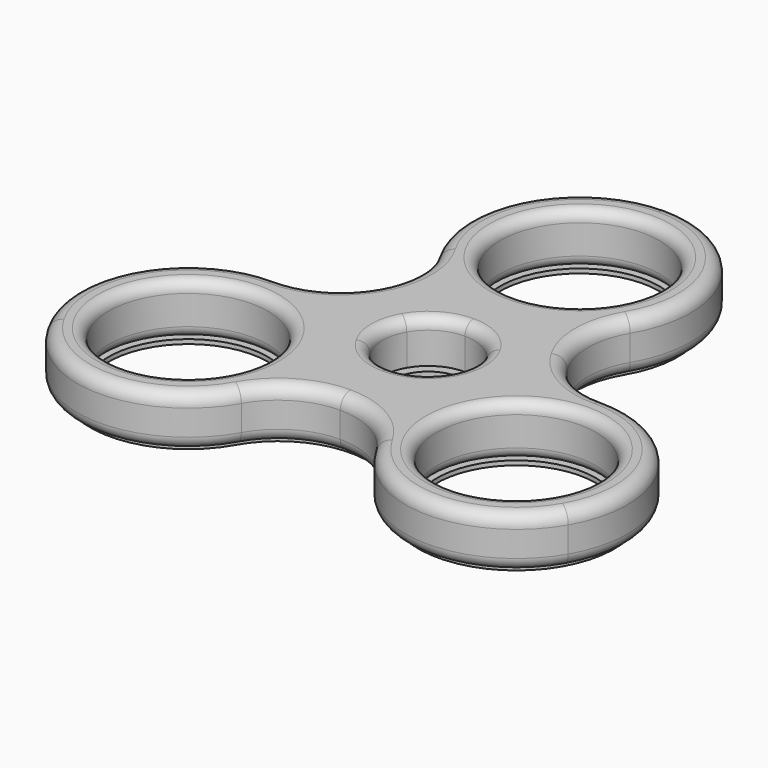
from build123d import *

# Parameters (mm, degrees)
F2_DEPTH  = 7
F4_COUNT  = 3
F5_R      = 6.275
F5_R_2    = 4.975
F6_DEPTH  = 1.2
F7_R      = 1.75
F8_R      = 1.75
F9_R      = 1.5
F10_R     = 10.875
F10_R_2   = 4.975
F11_DEPTH = 0.6


with BuildPart() as f2:
    # F1 (on Top) → F2 (new body)
    with BuildSketch(Plane.XY):
        with BuildLine():
            ThreePointArc((13.065388197, 18.1814343132), (13.1797165997, 33.4216816838), (0, 41.075))
            ThreePointArc((0, 41.075), (-13.1797165997, 33.4216816838), (-13.065388197, 18.1814343132))
            ThreePointArc((-13.065388197, 18.1814343132), (-11.5950374492, 12.8541871204), (-13.0120316919, 7.5125))
            Line((-13.0120316919, 7.5125), (-5.4343094087, 3.1375))
            ThreePointArc((-5.4343094087, 3.1375), (-3.1375, 5.4343094087), (0, 6.275))
            ThreePointArc((0, 6.275), (3.1375, 5.4343094087), (5.4343094087, 3.1375))
            Line((5.4343094087, 3.1375), (13.0120316919, 7.5125))
            ThreePointArc((13.0120316919, 7.5125), (11.5950374492, 12.8541871204), (13.065388197, 18.1814343132))
        make_face()
        with BuildLine():
            ThreePointArc((0, 15.025), (-10.875, 25.9), (0, 36.775))
            ThreePointArc((0, 36.775), (10.875, 25.9), (0, 15.025))
        make_face(mode=Mode.SUBTRACT)
    extrude(amount=F2_DEPTH)

    # F4: F2 ×3 about axis
    f4_axis = Axis((0, 0, -21.1250233245), (0, 0, -1))


with BuildPart() as f2_1:
    add(f2.part)
    for i in range(1, F4_COUNT):
        add(f2.part.rotate(f4_axis, i * 360 / F4_COUNT))

    # F5 (on Top) → F6 (join)
    with BuildSketch(Plane.XY):
        Circle(F5_R)
        Circle(F5_R_2, mode=Mode.SUBTRACT)
    extrude(amount=F6_DEPTH)

    # F7
    f7_edges = [f2_1.edges().sort_by_distance(p)[0] for p in [
        (-35.571993, -20.5375, 0),
    ]]
    fillet(f7_edges, radius=F7_R)

    # F8
    f8_edges = [f2_1.edges().sort_by_distance(p)[0] for p in [
        (-35.571993, -20.5375, 7),
    ]]
    fillet(f8_edges, radius=F8_R)

    # F9
    f9_edges = [f2_1.edges().sort_by_distance(p)[0] for p in [
        (-31.848084, -18.3875, 7),
        (0, 36.775, 7),
        (31.848084, -18.3875, 7),
        (-31.848084, -18.3875, 0),
        (31.848084, -18.3875, 0),
        (0, 36.775, 0),
        (0, 6.275, 7),
    ]]
    fillet(f9_edges, radius=F9_R)

    # F10 (on Top) → F11 (join)
    with BuildSketch(Plane.XY):
        with BuildLine():
            ThreePointArc((11.5586712715, 19.0715489723), (0, 39.325), (-11.5586712715, 19.0715489723))
            ThreePointArc((-11.5586712715, 19.0715489723), (-11.4964872352, 6.6375), (-22.2957815353, 0.474328469))
            ThreePointArc((-22.2957815353, 0.474328469), (-34.0564490038, -19.6625), (-10.7371102638, -19.5458774413))
            ThreePointArc((-10.7371102638, -19.5458774413), (0, -13.275), (10.7371102638, -19.5458774413))
            ThreePointArc((10.7371102638, -19.5458774413), (34.0564490038, -19.6625), (22.2957815353, 0.474328469))
            ThreePointArc((22.2957815353, 0.474328469), (11.4964872352, 6.6375), (11.5586712715, 19.0715489723))
        make_face()
        with Locations((-22.430057958, -12.95)):
            Circle(F10_R, mode=Mode.SUBTRACT)
        Circle(F10_R_2, mode=Mode.SUBTRACT)
        with Locations((22.430057958, -12.95)):
            Circle(F10_R, mode=Mode.SUBTRACT)
        with Locations((0, 25.9)):
            Circle(F10_R, mode=Mode.SUBTRACT)
    extrude(amount=-F11_DEPTH)


solid = f2_1.part
